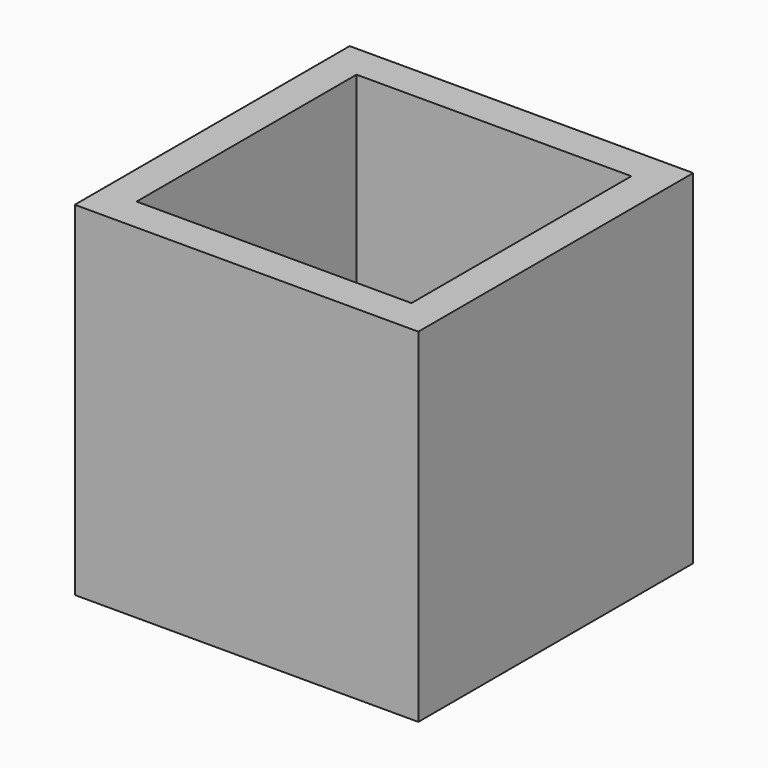
from build123d import *

# Parameters (mm, degrees)
F0_W     = 25.4
F0_H     = 25.4
F1_DEPTH = 25.4
F2_T     = -2.54


with BuildPart() as f1:
    # F0 (on Front) → F1 (new body)
    with BuildSketch(Plane.XZ):
        Rectangle(F0_W, F0_H)
    extrude(amount=F1_DEPTH)

    # F2
    f2_openings = [f1.faces().sort_by_distance(p)[0] for p in [
        (0, -12.7, 12.7),
    ]]
    offset(amount=F2_T, openings=f2_openings)


with BuildPart() as f3_1:
    # F3: copy of F1
    add(f1.part)


solid = f1.part
